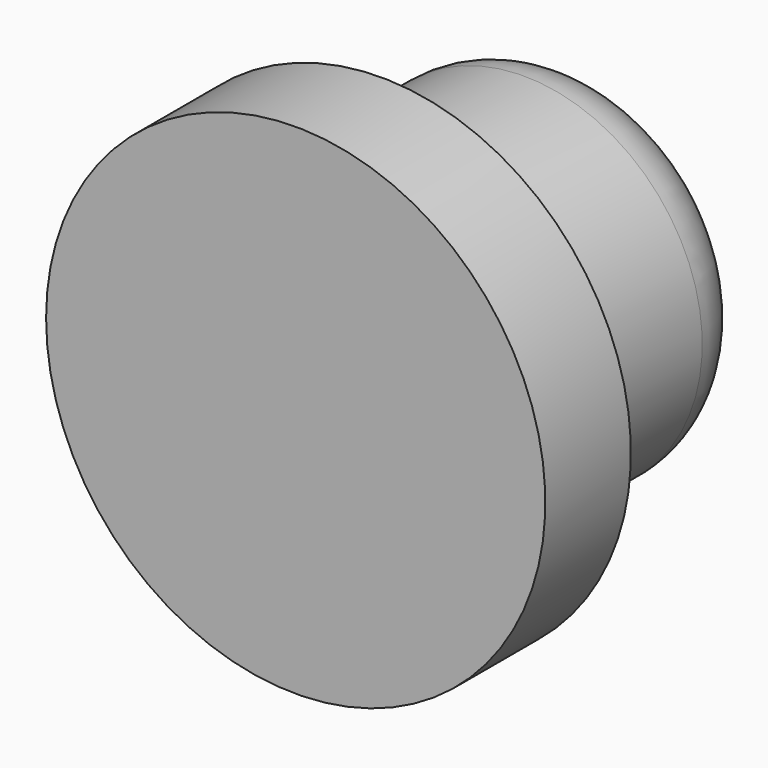
from build123d import *

# Parameters (mm, degrees)
SKETCH_R             = 7
PAD_DEPTH            = 10
SKETCH001_R          = 7
SKETCH001_R_2        = 5
POCKET_DEPTH         = 7
FILLET_R             = 2
BODY_PLACEMENT_ANGLE = 180


with BuildPart() as part:
    # Sketch → Pad (new body)
    with BuildSketch(Plane.XZ):
        Circle(SKETCH_R)
    extrude(amount=PAD_DEPTH)

    # Sketch001 (on Face3 of Pad) → Pocket (cut)
    with BuildSketch(Plane.XZ.offset(10)):
        Circle(SKETCH001_R)
        Circle(SKETCH001_R_2, mode=Mode.SUBTRACT)
    extrude(amount=-POCKET_DEPTH, mode=Mode.SUBTRACT)

    # Fillet
    fillet_edges = [part.edges().sort_by_distance(p)[0] for p in [
        (-5, -10, 0),
    ]]
    fillet(fillet_edges, radius=FILLET_R)


with BuildPart() as part_1:
    # Body placement: moved
    add(part.part.rotate(Axis((0, 0, 0), (0, 0, 1)), BODY_PLACEMENT_ANGLE))


solid = part_1.part
